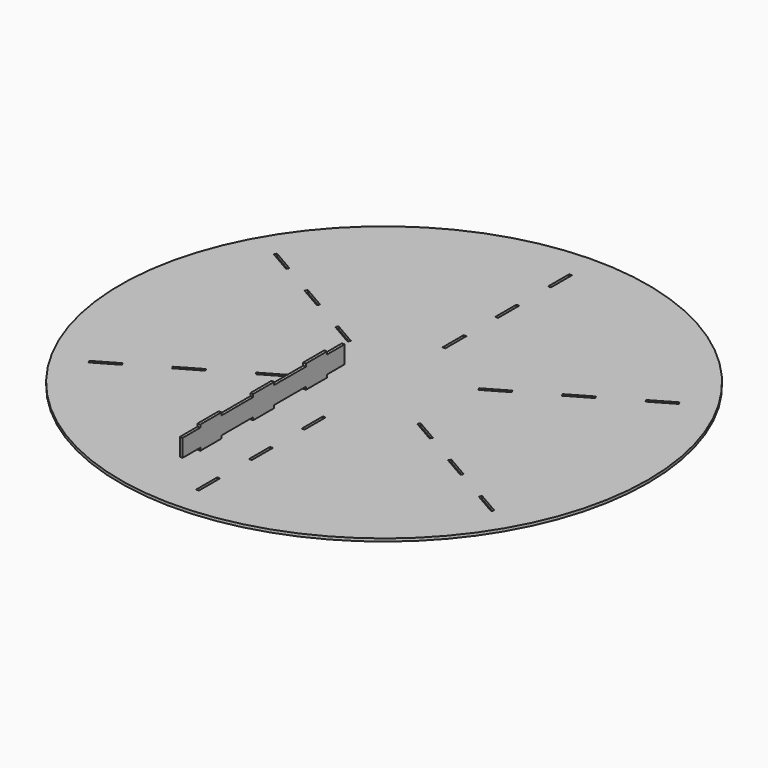
from build123d import *

# Parameters (mm, degrees)
F0_R     = 600
F2_DEPTH = 6.3
F1_W     = 6.35
F1_H     = 60
F3_DEPTH = 25
F4_W     = 60
F4_H     = 6.3
F5_DEPTH = 6.3


with BuildPart() as f2:
    # F0 (on Top) → F2 (new body)
    with BuildSketch(Plane.XY):
        Circle(F0_R)
    extrude(amount=F2_DEPTH)

    # F1 (on Top) → F3 (cut)
    with BuildSketch(Plane.XY):
        with Locations((0, 200)):
            Rectangle(F1_W, F1_H)
        with Locations((0, 350)):
            Rectangle(F1_W, F1_H)
        with Locations((0, 500)):
            Rectangle(F1_W, F1_H)
        Polygon((-460.5809640058, 262.250369343), (-408.6194397787, 232.250369343), (-405.4444397787, 237.749630657), (-457.4059640058, 267.749630657), align=None)
        Polygon((-197.5983428704, 117.749630657), (-200.7733428704, 112.250369343), (-148.8118186434, 82.250369343), (-145.6368186434, 87.749630657), align=None)
        Polygon((-330.6771534381, 187.250369343), (-278.715629211, 157.250369343), (-275.540629211, 162.749630657), (-327.5021534381, 192.749630657), align=None)
        Polygon((-457.4059640058, -267.749630657), (-405.4444397787, -237.749630657), (-408.6194397787, -232.250369343), (-460.5809640058, -262.250369343), align=None)
        Polygon((-200.7733428704, -112.250369343), (-197.5983428704, -117.749630657), (-145.6368186434, -87.749630657), (-148.8118186434, -82.250369343), align=None)
        Polygon((-327.5021534381, -192.749630657), (-275.540629211, -162.749630657), (-278.715629211, -157.250369343), (-330.6771534381, -187.250369343), align=None)
        with Locations((0, -500)):
            Rectangle(F1_W, F1_H)
        with Locations((0, -200)):
            Rectangle(F1_W, F1_H)
        with Locations((0, -350)):
            Rectangle(F1_W, F1_H)
        Polygon((460.5809640058, -262.250369343), (408.6194397787, -232.250369343), (405.4444397787, -237.749630657), (457.4059640058, -267.749630657), align=None)
        Polygon((197.5983428704, -117.749630657), (200.7733428704, -112.250369343), (148.8118186434, -82.250369343), (145.6368186434, -87.749630657), align=None)
        Polygon((330.6771534381, -187.250369343), (278.715629211, -157.250369343), (275.540629211, -162.749630657), (327.5021534381, -192.749630657), align=None)
        Polygon((457.4059640058, 267.749630657), (405.4444397787, 237.749630657), (408.6194397787, 232.250369343), (460.5809640058, 262.250369343), align=None)
        Polygon((200.7733428704, 112.250369343), (197.5983428704, 117.749630657), (145.6368186434, 87.749630657), (148.8118186434, 82.250369343), align=None)
        Polygon((327.5021534381, 192.749630657), (275.540629211, 162.749630657), (278.715629211, 157.250369343), (330.6771534381, 187.250369343), align=None)
    extrude(amount=F3_DEPTH, mode=Mode.SUBTRACT)


with BuildPart() as f5:
    # F4 (on Right) → F5 (new body)
    with BuildSketch(Plane.YZ):
        Polygon((-580, 133.2076589066), (-580, 113.2076589066), (-120, 113.2076589066), (-120, 133.2076589066), (-170, 133.2076589066), (-170, 126.9076589066), (-230, 126.9076589066), (-230, 133.2076589066), (-320, 133.2076589066), (-320, 126.9076589066), (-380, 126.9076589066), (-380, 133.2076589066), (-470, 133.2076589066), (-470, 126.9076589066), (-530, 126.9076589066), (-530, 133.2076589066), align=None)
        Polygon((-120, 113.2076589066), (-580, 113.2076589066), (-580, 93.2076589066), (-530, 93.2076589066), (-530, 99.5076589066), (-470, 99.5076589066), (-470, 93.2076589066), (-380, 93.2076589066), (-380, 99.5076589066), (-320, 99.5076589066), (-320, 93.2076589066), (-230, 93.2076589066), (-230, 99.5076589066), (-170, 99.5076589066), (-170, 93.2076589066), (-120, 93.2076589066), align=None)
        with Locations((-500, 96.3576589066)):
            Rectangle(F4_W, F4_H)
        with Locations((-500, 90.0576589066)):
            Rectangle(F4_W, F4_H)
        with Locations((-500, 130.0576589066)):
            Rectangle(F4_W, F4_H)
        with Locations((-500, 136.3576589066)):
            Rectangle(F4_W, F4_H)
        with Locations((-200, 90.0576589066)):
            Rectangle(F4_W, F4_H)
        with Locations((-200, 96.3576589066)):
            Rectangle(F4_W, F4_H)
        with Locations((-200, 136.3576589066)):
            Rectangle(F4_W, F4_H)
        with Locations((-200, 130.0576589066)):
            Rectangle(F4_W, F4_H)
        with Locations((-350, 96.3576589066)):
            Rectangle(F4_W, F4_H)
        with Locations((-350, 90.0576589066)):
            Rectangle(F4_W, F4_H)
        with Locations((-350, 130.0576589066)):
            Rectangle(F4_W, F4_H)
        with Locations((-350, 136.3576589066)):
            Rectangle(F4_W, F4_H)
    extrude(amount=F5_DEPTH)


solid = Compound([f2.part, f5.part])
